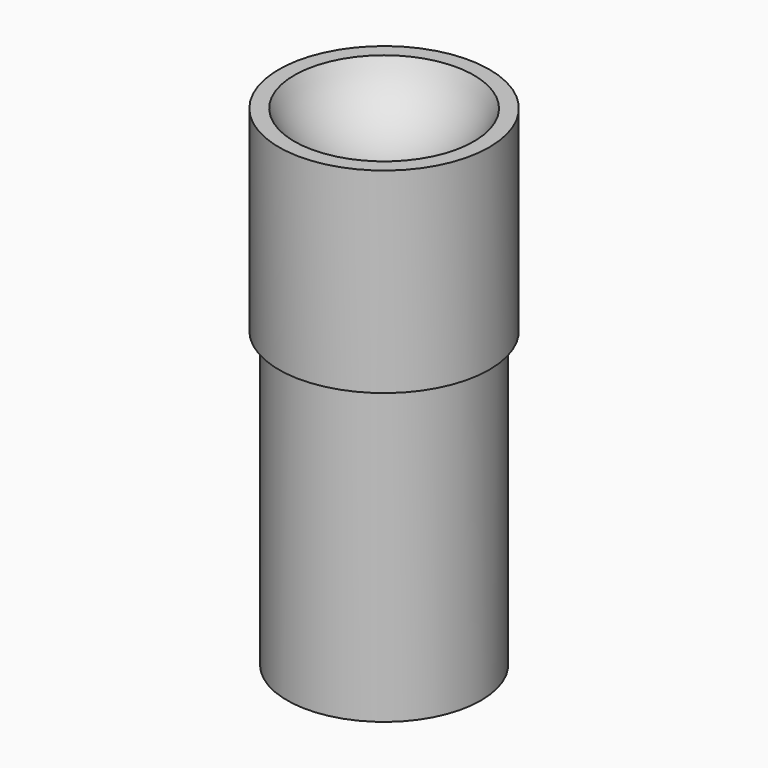
from build123d import *

# Parameters (mm, degrees)
F0_R     = 1.075
F1_DEPTH = 2
F2_R     = 0.99
F3_DEPTH = 3


with BuildPart() as f1:
    # F0 (on Top) → F1 (new body)
    with BuildSketch(Plane.XY):
        Circle(F0_R)
    extrude(amount=F1_DEPTH)

    # F2 (on face) → F3 (join)
    with BuildSketch(Plane(origin=(0, 0, 0), x_dir=(1, 0, 0), z_dir=(0, 0, -1))):
        Circle(F2_R)
    extrude(amount=F3_DEPTH)

    # F4 (on Right) → F5 (revolve, cut)
    with BuildSketch(Plane.YZ):
        with BuildLine():
            Line((0, 1.4), (0, 3.4))
            ThreePointArc((0, 3.4), (-1, 2.4), (0, 1.4))
        make_face()
    revolve(axis=Axis((0, 0, 1.2), (0, 0, 1)), mode=Mode.SUBTRACT)


solid = f1.part
